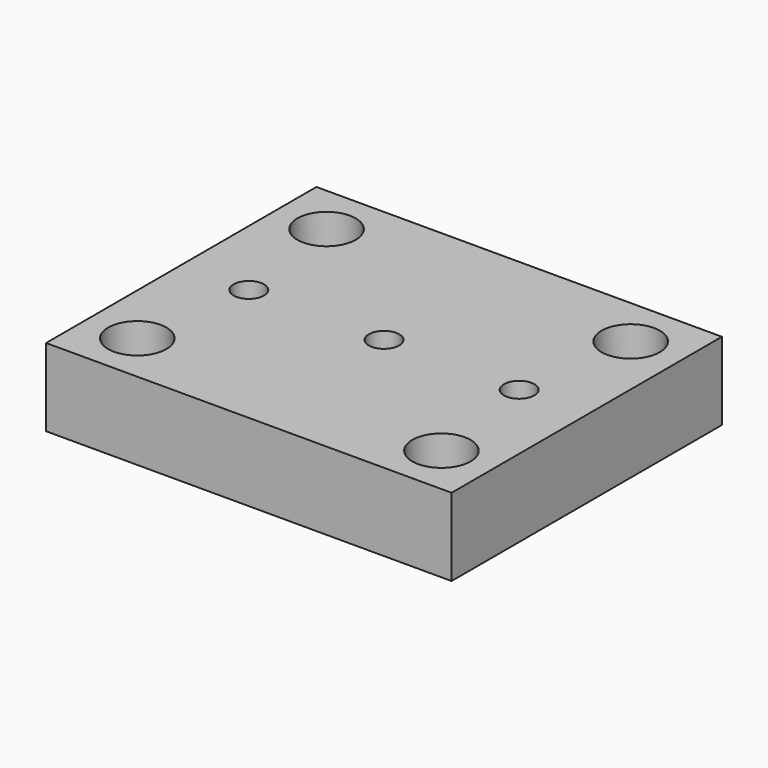
from build123d import *

# Parameters (mm, degrees)
F0_W           = 120
F0_H           = 100
F1_DEPTH       = 23
F3_D           = 9
F3_CBORE_D     = 14.5
F3_CBORE_DEPTH = 9
F5_D           = 11
F5_CBORE_D     = 17.25
F5_CBORE_DEPTH = 10


with BuildPart() as f1:
    # F0 (on Top) → F1 (new body)
    with BuildSketch(Plane.XY):
        Rectangle(F0_W, F0_H)
    extrude(amount=F1_DEPTH)

    # F3 (through all)
    with Locations(Plane(origin=(0, 0, 0), x_dir=(1, 0, 0), z_dir=(0, 0, -1))):
        with Locations((-40, 0), (0, 0), (40, 0)):
            CounterBoreHole(F3_D / 2, F3_CBORE_D / 2, F3_CBORE_DEPTH)

    # F5 (through all)
    with Locations(Plane.XY.offset(23)):
        with Locations((-45, 35), (45, 35), (45, -35), (-45, -35)):
            CounterBoreHole(F5_D / 2, F5_CBORE_D / 2, F5_CBORE_DEPTH)


solid = f1.part
